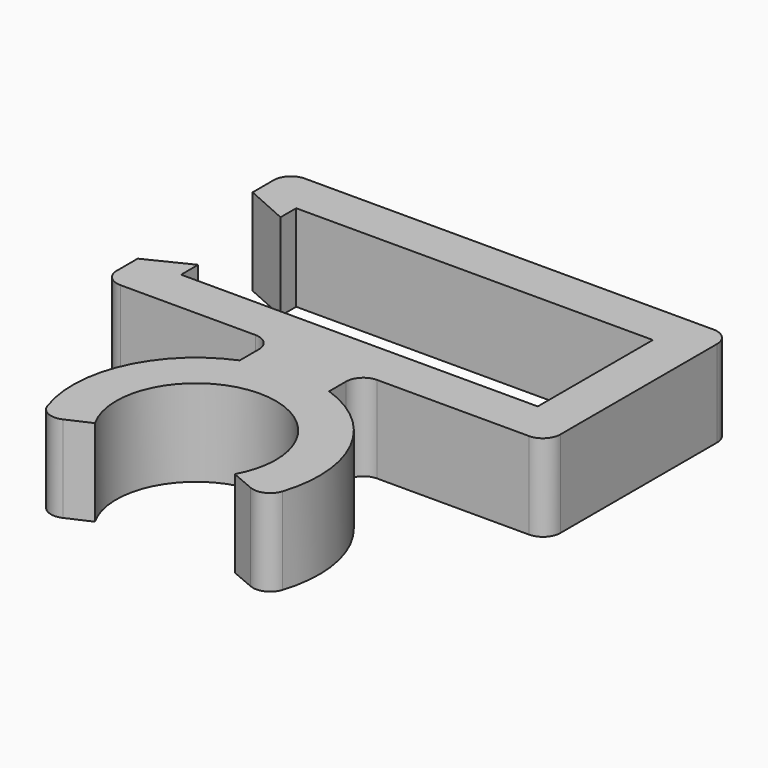
from build123d import *

# Parameters (mm, degrees)
F1_DEPTH = 12.7
F2_R     = 2.54
F3_R     = 2.54


with BuildPart() as f1:
    # F0 (on Top) → F1 (new body)
    with BuildSketch(Plane.XY):
        with BuildLine():
            Line((-4.977204, 46.650577), (-57.174204, 46.650577))
            Line((-57.174204, 46.650577), (-57.174204, 49.774006))
            Line((-57.174204, 49.774006), (-63.524204, 46.650577))
            Line((-63.524204, 46.650577), (-63.524204, 40.300577))
            Line((-63.524204, 40.300577), (-38.685617, 40.300577))
            Line((-38.685617, 40.300577), (-38.685617, 34.266871))
            ThreePointArc((-38.685617, 34.266871), (-48.729742, 23.719707), (-47.705534, 9.19118))
            Line((-47.705534, 9.19118), (-41.897547, 11.806156))
            ThreePointArc((-41.897547, 11.806156), (-31.839298, 29.299365), (-21.54512, 11.943945))
            Line((-21.54512, 11.943945), (-15.684392, 9.442896))
            ThreePointArc((-15.684392, 9.442896), (-15.050737, 24.39937), (-25.9308, 34.681484))
            Line((-25.9308, 34.681484), (-25.9308, 40.300577))
            Line((-25.9308, 40.300577), (1.372796, 40.300577))
            Line((1.372796, 40.300577), (1.372796, 74.057181))
            Line((1.372796, 74.057181), (-63.524204, 74.057181))
            Line((-63.524204, 74.057181), (-63.524204, 67.677669))
            Line((-63.524204, 67.677669), (-57.174204, 64.84545))
            Line((-57.174204, 64.84545), (-57.174204, 67.707181))
            Line((-57.174204, 67.707181), (-4.977204, 67.707181))
            Line((-4.977204, 67.707181), (-4.977204, 46.650577))
        make_face()
    extrude(amount=F1_DEPTH)

    # F2
    f2_edges = [f1.edges().sort_by_distance(p)[0] for p in [
        (-63.524204, 74.057181, 6.35),
        (-63.524204, 40.300577, 6.35),
        (-38.685617, 40.300577, 6.35),
        (-25.9308, 40.300577, 6.35),
        (1.372796, 40.300577, 6.35),
        (1.372796, 74.057181, 6.35),
    ]]
    fillet(f2_edges, radius=F2_R)

    # F3
    f3_edges = [f1.edges().sort_by_distance(p)[0] for p in [
        (-15.684392, 9.442896, 6.35),
        (-47.705534, 9.19118, 6.35),
    ]]
    fillet(f3_edges, radius=F3_R)


solid = f1.part
